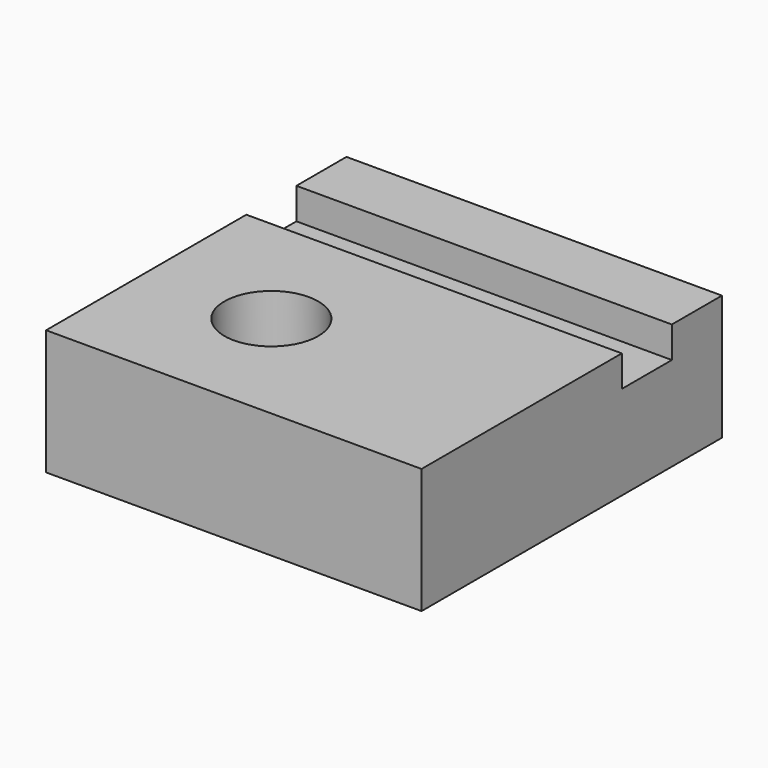
from build123d import *

# Parameters (mm, degrees)
F1_DEPTH = 76.2
F2_R     = 9.525
F3_DEPTH = 25.401


with BuildPart() as f1:
    # F0 (on Right) → F1 (new body)
    with BuildSketch(Plane.YZ):
        Polygon((-33.997224, 27.808671), (-84.797224, 27.808671), (-84.797224, 2.408671), (-8.597224, 2.408671), (-8.597224, 27.808671), (-21.297224, 27.808671), (-21.297224, 21.458671), (-33.997224, 21.458671), align=None)
    extrude(amount=F1_DEPTH)

    # F2 (on face) → F3 (cut, through all)
    with BuildSketch(Plane.XY.offset(27.808671)):
        with Locations((25.4, -59.397224)):
            Circle(F2_R)
    extrude(amount=-F3_DEPTH, mode=Mode.SUBTRACT)


solid = f1.part
